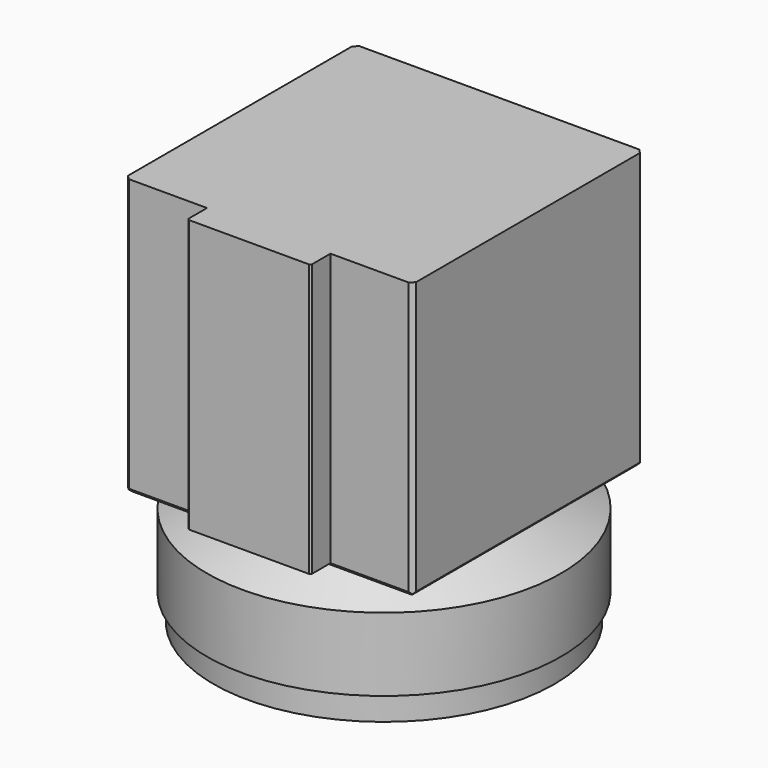
from build123d import *

# Parameters (mm, degrees)
F0_W     = 215
F0_H     = 34.0627696488
F0_W_2   = 207.1483027775
F0_H_2   = 31.7993836311
F3_DEPTH = 336
F4_SIZE  = 5
F5_SIZE  = 5
F7_DEPTH = 30
F8_SIZE  = 2


with BuildPart() as f1:
    # F0 (on Front) → F1 (revolve)
    with BuildSketch(Plane.XZ):
        Polygon((-91.5524632784, 42.0493356358), (41.045925168, 42.0493356358), (41.045925168, 171.5008825727), (41.045925168, 367.6874935627), (-133.954074832, 367.6874935627), (-133.954074832, 42.0493356358), align=None)
        Polygon((-173.954074832, 0), (41.045925168, 0), (41.045925168, 42.0493356358), (-91.5524632784, 42.0493356358), align=None)
        with Locations((-66.454074832, -17.0313848244)):
            Rectangle(F0_W, F0_H)
        Polygon((-173.954074832, -89.0246674962), (-166.1023776095, -89.0246674962), (41.045925168, -89.0246674962), (41.045925168, -34.0627696488), (-173.954074832, -34.0627696488), align=None)
        with Locations((-62.5282262207, -104.9243593118)):
            Rectangle(F0_W_2, F0_H_2)
    revolve(axis=Axis((41.045925168, 0, -11.5101449135), (0, 0, -1)))

    # F2 (on face) → F3 (join)
    with BuildSketch(Plane.XY.offset(367.6874935627)):
        with BuildLine():
            Line((41.045925296, 175), (-133.954074832, 175))
            Line((-133.954074832, 175), (-133.954074832, -4.69e-07))
            ThreePointArc((-133.954074832, -4.69e-07), (-82.6977616602, 123.7436865871), (41.045925296, 175))
        make_face()
        with BuildLine():
            ThreePointArc((216.045925168, 0), (164.7896119209, 123.7436866624), (41.045925296, 175))
            ThreePointArc((41.045925296, 175), (-82.6977616602, 123.7436865871), (-133.954074832, -4.69e-07))
            ThreePointArc((-133.954074832, -4.69e-07), (-82.6977616199, -123.7436866274), (41.0459244719, -175))
            ThreePointArc((41.0459244719, -175), (164.7896116296, -123.7436869538), (216.045925168, 0))
        make_face()
        with BuildLine():
            Line((216.045925168, 175), (41.045925296, 175))
            ThreePointArc((41.045925296, 175), (164.7896119209, 123.7436866624), (216.045925168, 0))
            Line((216.045925168, 0), (216.045925168, 175))
        make_face()
        with BuildLine():
            Line((216.045925168, -175), (216.045925168, 0))
            ThreePointArc((216.045925168, 0), (164.7896116296, -123.7436869538), (41.0459244719, -175))
            Line((41.0459244719, -175), (216.045925168, -175))
        make_face()
        with BuildLine():
            ThreePointArc((41.0459244719, -175), (-82.6977616199, -123.7436866274), (-133.954074832, -4.69e-07))
            Line((-133.954074832, -4.69e-07), (-133.954074832, -175))
            Line((-133.954074832, -175), (41.0459244719, -175))
        make_face()
    extrude(amount=-F3_DEPTH)

    # F4
    f4_edges = [f1.edges().sort_by_distance(p)[0] for p in [
        (41.045925, 175, 31.687494),
        (-133.954075, 0, 31.687494),
        (216.045925, 0, 31.687494),
        (41.045925, -175, 31.687494),
    ]]
    chamfer(f4_edges, length=F4_SIZE)

    # F5
    f5_edges = [f1.edges().sort_by_distance(p)[0] for p in [
        (216.045925, 175, 202.187494),
        (216.045925, -175, 202.187494),
        (-133.954075, 175, 202.187494),
        (-133.954075, -175, 202.187494),
    ]]
    chamfer(f5_edges, length=F5_SIZE)

    # F6 (on face) → F7 (join)
    with BuildSketch(Plane.XZ.offset(175)):
        Polygon((-33.954074832, 367.6874935627), (-33.954074832, 36.6874935627), (116.045925168, 36.6874935627), (116.045925168, 367.6874935627), (41.0459247854, 367.6874935627), align=None)
    extrude(amount=F7_DEPTH)

    # F8
    f8_edges = [f1.edges().sort_by_distance(p)[0] for p in [
        (-33.954075, -205, 202.187494),
        (116.045925, -205, 202.187494),
    ]]
    chamfer(f8_edges, length=F8_SIZE)


solid = f1.part
